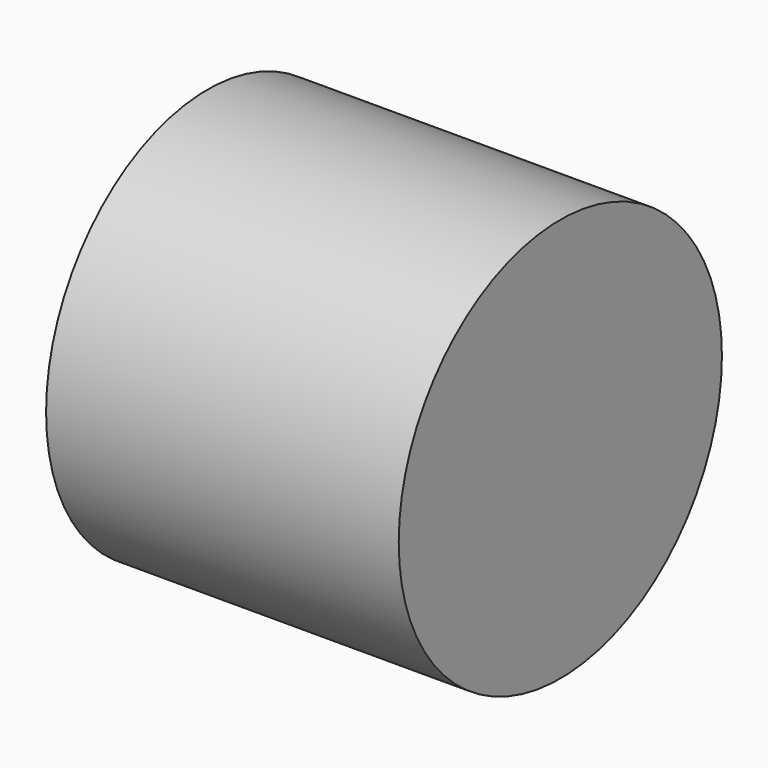
from build123d import *

# Parameters (mm, degrees)
F0_R      = 74.199808
F1_DEPTH  = 25.4
F1_FACE_R = 74.199808
F2_DEPTH  = 104.14


with BuildPart() as f1:
    # F0 (on Right) → F1 (new body)
    with BuildSketch(Plane.YZ):
        with Locations((51.569817, -53.349466)):
            Circle(F0_R)
    extrude(amount=F1_DEPTH)

    # F1_face (on face) → F2 (join)
    with BuildSketch(Plane(origin=(25.4, 51.569817, -53.349466), x_dir=(0, 1, 0), z_dir=(1, 0, 0))):
        Circle(F1_FACE_R)
    extrude(amount=F2_DEPTH)


solid = f1.part
